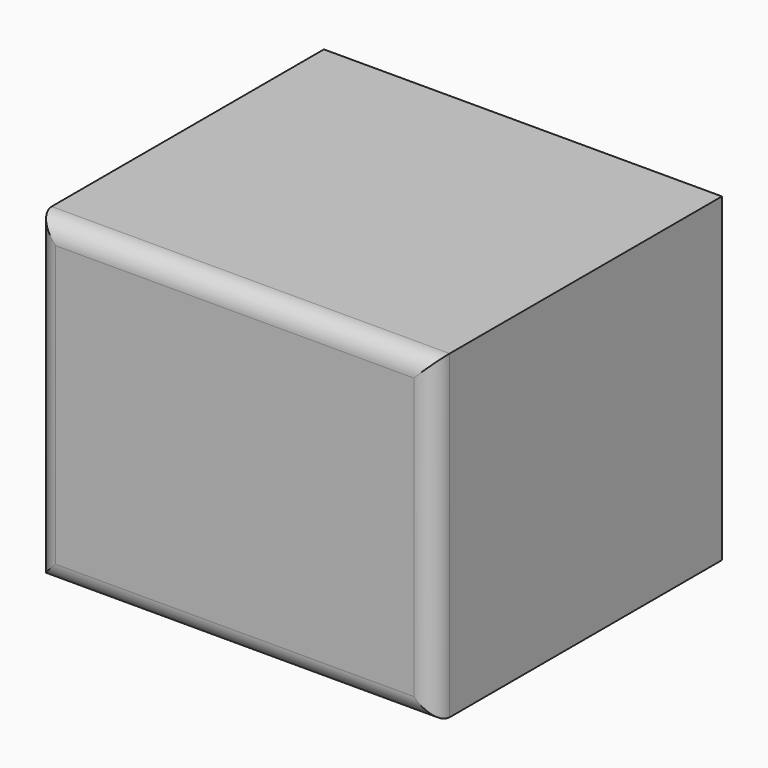
from build123d import *

# Parameters (mm, degrees)
F0_W     = 101.6
F0_H     = 81.743848
F1_DEPTH = 91.948
F2_R     = 5.08
F3_R     = 50.736946
F4_DEPTH = 40.872924


with BuildPart() as f1:
    # F0 (on Front) → F1 (new body)
    with BuildSketch(Plane.XZ):
        Rectangle(F0_W, F0_H)
    extrude(amount=F1_DEPTH)

    # F2
    f2_edges = [f1.edges().sort_by_distance(p)[0] for p in [
        (-50.8, -91.948, 0),
        (0, -91.948, -40.871924),
        (50.8, -91.948, 0),
        (0, -91.948, 40.871924),
    ]]
    fillet(f2_edges, radius=F2_R)

    # F3 (on Top) → F4 (cut, through all)
    with BuildSketch(Plane.XY):
        Circle(F3_R)
    extrude(amount=-F4_DEPTH, mode=Mode.SUBTRACT)


solid = f1.part
